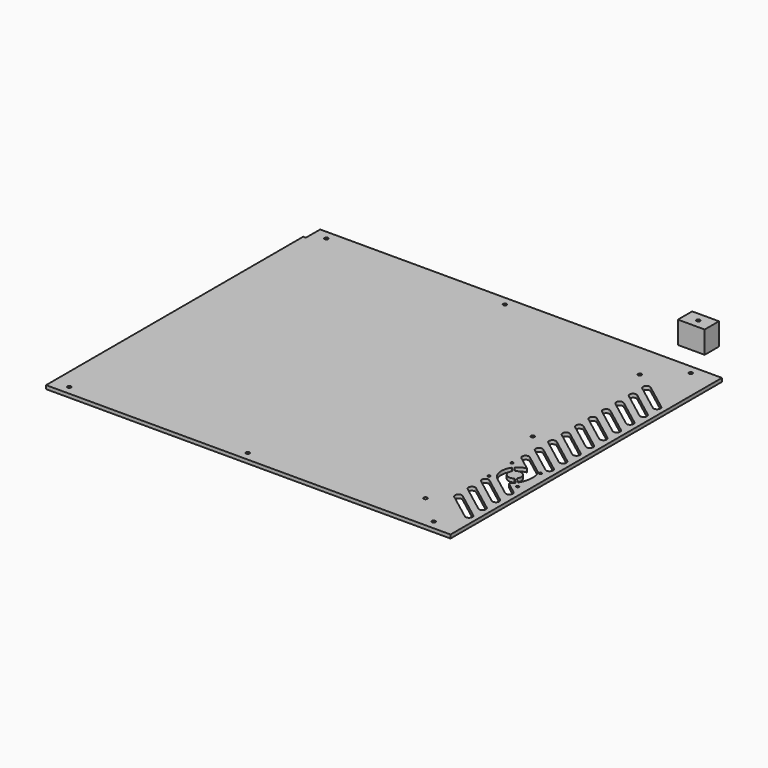
from build123d import *

# Parameters (mm, degrees)
F0_R     = 2
F0_R_2   = 1.5
F1_DEPTH = 4
F0_W     = 30
F0_H     = 20
F2_DEPTH = 25


with BuildPart() as f1:
    # F0 (on Top) → F1 (new body)
    with BuildSketch(Plane.XY):
        Polygon((235, 190), (-215, 190), (-215, 170), (-218, 170), (-218, -170), (-218, -190), (-215, -190), (235, -190), align=None)
        with Locations((-200, -180)):
            Circle(F0_R, mode=Mode.SUBTRACT)
        with Locations((0, -180)):
            Circle(F0_R, mode=Mode.SUBTRACT)
        with Locations((175, -150)):
            Circle(F0_R, mode=Mode.SUBTRACT)
        with Locations((208.147477, -180)):
            Circle(F0_R, mode=Mode.SUBTRACT)
        with BuildLine():
            Line((197.586159, -126.223779), (227.881112, -149.216425))
            ThreePointArc((227.881112, -149.216425), (228.562811, -154.495508), (223.294953, -155.259117))
            Line((223.294953, -155.259117), (193, -132.266471))
            ThreePointArc((193, -132.266471), (192.271734, -126.952045), (197.586159, -126.223779))
        make_face(mode=Mode.SUBTRACT)
        with BuildLine():
            ThreePointArc((193, -113.466471), (192.271734, -108.152045), (197.586159, -107.423779))
            Line((197.586159, -107.423779), (227.881112, -130.416425))
            ThreePointArc((227.881112, -130.416425), (228.562811, -135.695508), (223.294953, -136.459117))
            Line((223.294953, -136.459117), (193, -113.466471))
        make_face(mode=Mode.SUBTRACT)
        with Locations((192.147477, -82.400975)):
            Circle(F0_R_2, mode=Mode.SUBTRACT)
        with BuildLine():
            ThreePointArc((193, -94.666471), (192.271734, -89.352045), (197.586159, -88.623779))
            Line((197.586159, -88.623779), (227.881112, -111.616425))
            ThreePointArc((227.881112, -111.616425), (228.562811, -116.895508), (223.294953, -117.659117))
            Line((223.294953, -117.659117), (193, -94.666471))
        make_face(mode=Mode.SUBTRACT)
        with BuildLine():
            ThreePointArc((224.064014, -80.903299), (225.178206, -81.311206), (225.647477, -82.400975))
            ThreePointArc((225.647477, -82.400975), (224.105729, -83.900394), (222.6498, -82.317512))
            ThreePointArc((222.6498, -82.317512), (223.086816, -81.340315), (224.064014, -80.903299))
        make_face(mode=Mode.SUBTRACT)
        with BuildLine():
            Line((223.294953, -98.859117), (201.609818, -82.400975))
            ThreePointArc((201.609818, -82.400975), (194.689895, -70.732549), (197.87896, -57.546672))
            Line((197.87896, -57.546672), (202.461919, -62.129631))
            ThreePointArc((202.461919, -62.129631), (203.11906, -71.429392), (212.418821, -72.086533))
            Line((212.418821, -72.086533), (218.358112, -78.025824))
            ThreePointArc((218.358112, -78.025824), (216.380662, -80.331209), (214.157786, -82.400975))
            Line((214.157786, -82.400975), (227.881112, -92.816425))
            ThreePointArc((227.881112, -92.816425), (228.562811, -98.095508), (223.294953, -98.859117))
        make_face(mode=Mode.SUBTRACT)
        with BuildLine():
            ThreePointArc((192.230939, -51.898651), (191.057707, -49.370246), (193.647477, -50.400975))
            ThreePointArc((193.647477, -50.400975), (193.646895, -50.442722), (193.645153, -50.484438))
            ThreePointArc((193.645153, -50.484438), (193.208137, -51.461635), (192.230939, -51.898651))
        make_face(mode=Mode.SUBTRACT)
        with BuildLine():
            ThreePointArc((193, -38.266471), (192.271734, -32.952045), (197.586159, -32.223779))
            Line((197.586159, -32.223779), (221.536308, -50.400975))
            ThreePointArc((221.536308, -50.400975), (223.855089, -63.641696), (219.529735, -76.36902))
            Line((219.529735, -76.36902), (213.833035, -70.672319))
            ThreePointArc((213.833035, -70.672319), (213.175893, -61.372558), (203.876132, -60.715417))
            Line((203.876132, -60.715417), (199.142819, -55.982104))
            ThreePointArc((199.142819, -55.982104), (203.615628, -52.397793), (208.988339, -50.400975))
            Line((208.988339, -50.400975), (193, -38.266471))
        make_face(mode=Mode.SUBTRACT)
        with Locations((224.147477, -50.400975)):
            Circle(F0_R_2, mode=Mode.SUBTRACT)
        with Locations((175, 0)):
            Circle(F0_R, mode=Mode.SUBTRACT)
        with BuildLine():
            ThreePointArc((193, -19.466471), (192.271734, -14.152045), (197.586159, -13.423779))
            Line((197.586159, -13.423779), (227.881112, -36.416425))
            ThreePointArc((227.881112, -36.416425), (228.562811, -41.695508), (223.294953, -42.459117))
            Line((223.294953, -42.459117), (193, -19.466471))
        make_face(mode=Mode.SUBTRACT)
        with BuildLine():
            ThreePointArc((193, -0.666471), (192.271734, 4.647955), (197.586159, 5.376221))
            Line((197.586159, 5.376221), (227.881112, -17.616425))
            ThreePointArc((227.881112, -17.616425), (228.562811, -22.895508), (223.294953, -23.659117))
            Line((223.294953, -23.659117), (193, -0.666471))
        make_face(mode=Mode.SUBTRACT)
        with BuildLine():
            ThreePointArc((193, 18.133529), (192.271734, 23.447955), (197.586159, 24.176221))
            Line((197.586159, 24.176221), (227.881112, 1.183575))
            ThreePointArc((227.881112, 1.183575), (228.562811, -4.095508), (223.294953, -4.859117))
            Line((223.294953, -4.859117), (193, 18.133529))
        make_face(mode=Mode.SUBTRACT)
        with Locations((-200, 180)):
            Circle(F0_R, mode=Mode.SUBTRACT)
        with Locations((0, 180)):
            Circle(F0_R, mode=Mode.SUBTRACT)
        with BuildLine():
            ThreePointArc((193, 36.933529), (192.271734, 42.247955), (197.586159, 42.976221))
            Line((197.586159, 42.976221), (227.881112, 19.983575))
            ThreePointArc((227.881112, 19.983575), (228.562811, 14.704492), (223.294953, 13.940883))
            Line((223.294953, 13.940883), (193, 36.933529))
        make_face(mode=Mode.SUBTRACT)
        with BuildLine():
            ThreePointArc((193, 55.733529), (192.271734, 61.047955), (197.586159, 61.776221))
            Line((197.586159, 61.776221), (227.881112, 38.783575))
            ThreePointArc((227.881112, 38.783575), (228.562811, 33.504492), (223.294953, 32.740883))
            Line((223.294953, 32.740883), (193, 55.733529))
        make_face(mode=Mode.SUBTRACT)
        with BuildLine():
            ThreePointArc((193, 74.533529), (192.271734, 79.847955), (197.586159, 80.576221))
            Line((197.586159, 80.576221), (227.881112, 57.583575))
            ThreePointArc((227.881112, 57.583575), (228.562811, 52.304492), (223.294953, 51.540883))
            Line((223.294953, 51.540883), (193, 74.533529))
        make_face(mode=Mode.SUBTRACT)
        with BuildLine():
            ThreePointArc((193, 93.333529), (192.271734, 98.647955), (197.586159, 99.376221))
            Line((197.586159, 99.376221), (227.881112, 76.383575))
            ThreePointArc((227.881112, 76.383575), (228.562811, 71.104492), (223.294953, 70.340883))
            Line((223.294953, 70.340883), (193, 93.333529))
        make_face(mode=Mode.SUBTRACT)
        with BuildLine():
            ThreePointArc((193, 112.133529), (192.271734, 117.447955), (197.586159, 118.176221))
            Line((197.586159, 118.176221), (227.881112, 95.183575))
            ThreePointArc((227.881112, 95.183575), (228.562811, 89.904492), (223.294953, 89.140883))
            Line((223.294953, 89.140883), (193, 112.133529))
        make_face(mode=Mode.SUBTRACT)
        with BuildLine():
            ThreePointArc((193, 130.933529), (192.271734, 136.247955), (197.586159, 136.976221))
            Line((197.586159, 136.976221), (227.881112, 113.983575))
            ThreePointArc((227.881112, 113.983575), (228.562811, 108.704492), (223.294953, 107.940883))
            Line((223.294953, 107.940883), (193, 130.933529))
        make_face(mode=Mode.SUBTRACT)
        with Locations((175, 150)):
            Circle(F0_R, mode=Mode.SUBTRACT)
        with Locations((208.147477, 180)):
            Circle(F0_R, mode=Mode.SUBTRACT)
    extrude(amount=F1_DEPTH)


with BuildPart() as f2:
    # F0 (on Top) → F2 (new body)
    with BuildSketch(Plane.XY):
        with Locations((176.205587, 230.590964)):
            Rectangle(F0_W, F0_H)
        with Locations((176.205587, 230.590964)):
            Circle(F0_R, mode=Mode.SUBTRACT)
    extrude(amount=F2_DEPTH)


solid = Compound([f1.part, f2.part])
